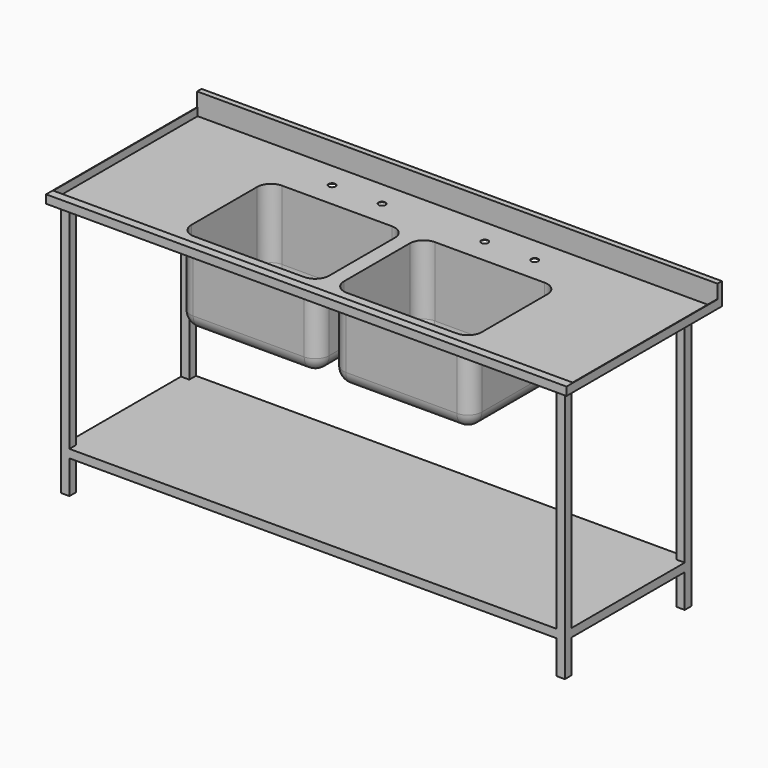
from build123d import *

# Parameters (mm, degrees)
F1_DEPTH  = 1875
F2_W      = 2
F2_H      = 28
F3_DEPTH  = 650
F4_W      = 500
F4_H      = 400
F5_DEPTH  = 300
F6_W      = 496
F6_H      = 396
F7_DEPTH  = 300
F8_R      = 50
F9_R      = 50
F10_R     = 25
F11_DEPTH = 2
F12_R     = 12.5
F13_DEPTH = 2
F14_W     = 30
F14_H     = 30
F15_DEPTH = 920
F16_W     = 570
F16_H     = 30
F17_DEPTH = 1815


with BuildPart() as f1:
    # F0 (on Right) → F1 (new body)
    with BuildSketch(Plane.YZ):
        Polygon((0, 30), (0, 0), (700, 0), (700, 80), (680, 80), (680, 2), (30, 2), (30, 30), align=None)
    extrude(amount=F1_DEPTH)

    # F2 (on face) → F3 (join, through all)
    with BuildSketch(Plane(origin=(0, 30, 0), x_dir=(-1, 0, 0), z_dir=(0, 1, 0))):
        with Locations((-1874, 16)):
            Rectangle(F2_W, F2_H)
        with Locations((-1, 16)):
            Rectangle(F2_W, F2_H)
    extrude(amount=F3_DEPTH)

    # F4 (on face) → F5 (join)
    with BuildSketch(Plane(origin=(0, 0, 0), x_dir=(1, 0, 0), z_dir=(0, 0, -1))):
        with Locations((650, -300)):
            Rectangle(F4_W, F4_H)
        with Locations((1200, -300)):
            Rectangle(F4_W, F4_H)
    extrude(amount=F5_DEPTH)

    # F6 (on face) → F7 (cut)
    with BuildSketch(Plane.XY.offset(2)):
        with Locations((650, 300)):
            Rectangle(F6_W, F6_H)
        with Locations((1200, 300)):
            Rectangle(F6_W, F6_H)
    extrude(amount=-F7_DEPTH, mode=Mode.SUBTRACT)

    # F8
    f8_edges = [f1.edges().sort_by_distance(p)[0] for p in [
        (402, 102, -148),
        (402, 498, -148),
        (952, 498, -148),
        (1448, 498, -148),
        (898, 498, -148),
        (898, 102, -148),
        (1448, 102, -148),
        (1448, 300, -298),
        (1200, 498, -298),
        (952, 300, -298),
        (952, 102, -148),
        (1200, 102, -298),
        (650, 102, -298),
        (402, 300, -298),
        (650, 498, -298),
        (898, 300, -298),
    ]]
    fillet(f8_edges, radius=F8_R)

    # F9
    f9_edges = [f1.edges().sort_by_distance(p)[0] for p in [
        (400, 100, -150),
        (900, 100, -150),
        (950, 100, -150),
        (1450, 100, -150),
        (1450, 500, -150),
        (950, 500, -150),
        (900, 500, -150),
        (400, 500, -150),
        (400, 300, -300),
        (650, 500, -300),
        (900, 300, -300),
        (650, 100, -300),
        (950, 300, -300),
        (1200, 500, -300),
        (1450, 300, -300),
        (1200, 100, -300),
    ]]
    fillet(f9_edges, radius=F9_R)

    # F10 (on face) → F11 (cut, through all)
    with BuildSketch(Plane.XY.offset(-298)):
        with Locations((650, 373)):
            Circle(F10_R)
        with Locations((1200, 373)):
            Circle(F10_R)
    extrude(amount=-F11_DEPTH, mode=Mode.SUBTRACT)

    # F12 (on face) → F13 (cut, through all)
    with BuildSketch(Plane.XY.offset(2)):
        with Locations((560, 588)):
            Circle(F12_R)
        with Locations((740, 588)):
            Circle(F12_R)
        with Locations((1110, 588)):
            Circle(F12_R)
        with Locations((1290, 588)):
            Circle(F12_R)
    extrude(amount=-F13_DEPTH, mode=Mode.SUBTRACT)

    # F14 (on face) → F15 (join)
    with BuildSketch(Plane(origin=(0, 0, 0), x_dir=(1, 0, 0), z_dir=(0, 0, -1))):
        with Locations((45, -45)):
            Rectangle(F14_W, F14_H)
        with Locations((1830, -45)):
            Rectangle(F14_W, F14_H)
        with Locations((1830, -585)):
            Rectangle(F14_W, F14_H)
        with Locations((45, -585)):
            Rectangle(F14_W, F14_H)
    extrude(amount=F15_DEPTH)

    # F16 (on face) → F17 (join, through all)
    with BuildSketch(Plane.YZ.offset(1845)):
        with Locations((315, -785)):
            Rectangle(F16_W, F16_H)
    extrude(amount=-F17_DEPTH)


solid = f1.part
